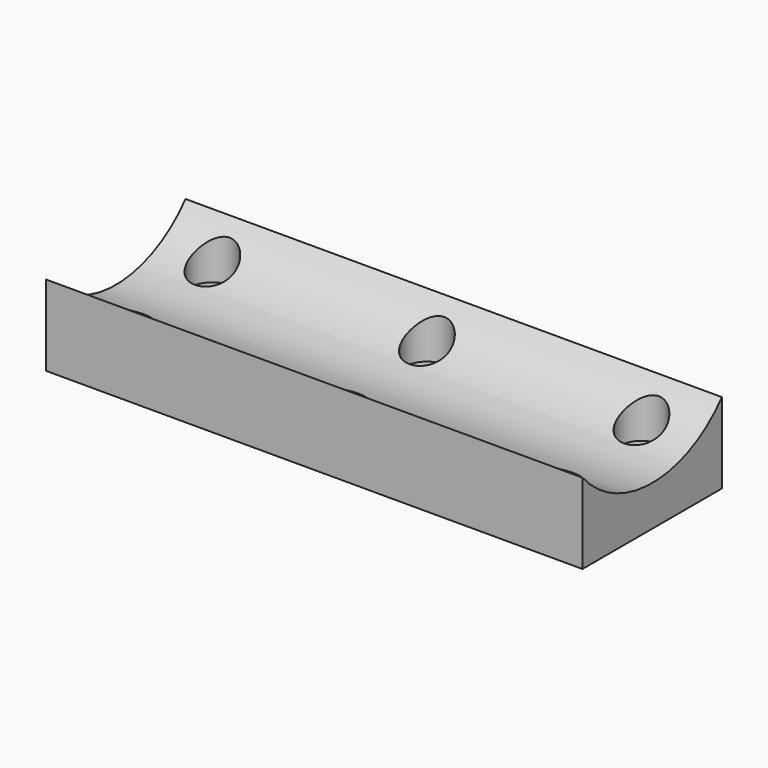
from build123d import *

# Parameters (mm, degrees)
F0_W     = 80
F0_H     = 26
F0_R     = 1.85
F1_DEPTH = 25
F3_R     = 3.25
F3_R_2   = 1.85
F4_DEPTH = 21
F5_DEPTH = 100


with BuildPart() as f1:
    # F0 (on Top) → F1 (new body)
    with BuildSketch(Plane.XY):
        Rectangle(F0_W, F0_H)
        with Locations((-32, -8)):
            Circle(F0_R, mode=Mode.SUBTRACT)
        with Locations((0, -8)):
            Circle(F0_R, mode=Mode.SUBTRACT)
        with Locations((32, -8)):
            Circle(F0_R, mode=Mode.SUBTRACT)
        with Locations((-32, 8)):
            Circle(F0_R, mode=Mode.SUBTRACT)
        with Locations((0, 8)):
            Circle(F0_R, mode=Mode.SUBTRACT)
        with Locations((32, 8)):
            Circle(F0_R, mode=Mode.SUBTRACT)
    extrude(amount=F1_DEPTH)

    # F3 (on face) → F4 (cut)
    with BuildSketch(Plane.XY.offset(25)):
        with Locations((-32, -8)):
            Circle(F3_R)
        with Locations((-32, -8)):
            Circle(F3_R_2, mode=Mode.SUBTRACT)
        with Locations((-32, 8)):
            Circle(F3_R)
        with Locations((-32, 8)):
            Circle(F3_R_2, mode=Mode.SUBTRACT)
        with Locations((0, 8)):
            Circle(F3_R)
        with Locations((0, 8)):
            Circle(F3_R_2, mode=Mode.SUBTRACT)
        with Locations((0, -8)):
            Circle(F3_R)
        with Locations((0, -8)):
            Circle(F3_R_2, mode=Mode.SUBTRACT)
        with Locations((32, 8)):
            Circle(F3_R)
        with Locations((32, 8)):
            Circle(F3_R_2, mode=Mode.SUBTRACT)
        with Locations((32, -8)):
            Circle(F3_R)
        with Locations((32, -8)):
            Circle(F3_R_2, mode=Mode.SUBTRACT)
    extrude(amount=-F4_DEPTH, mode=Mode.SUBTRACT)

    # F2 (on face) → F5 (cut)
    with BuildSketch(Plane.YZ.offset(40)):
        with BuildLine():
            Line((-13, 25), (-13, 12))
            ThreePointArc((-13, 12), (0, 6), (13, 12))
            Line((13, 12), (13, 25))
            Line((13, 25), (-13, 25))
        make_face()
    extrude(amount=-F5_DEPTH, mode=Mode.SUBTRACT)


solid = f1.part
